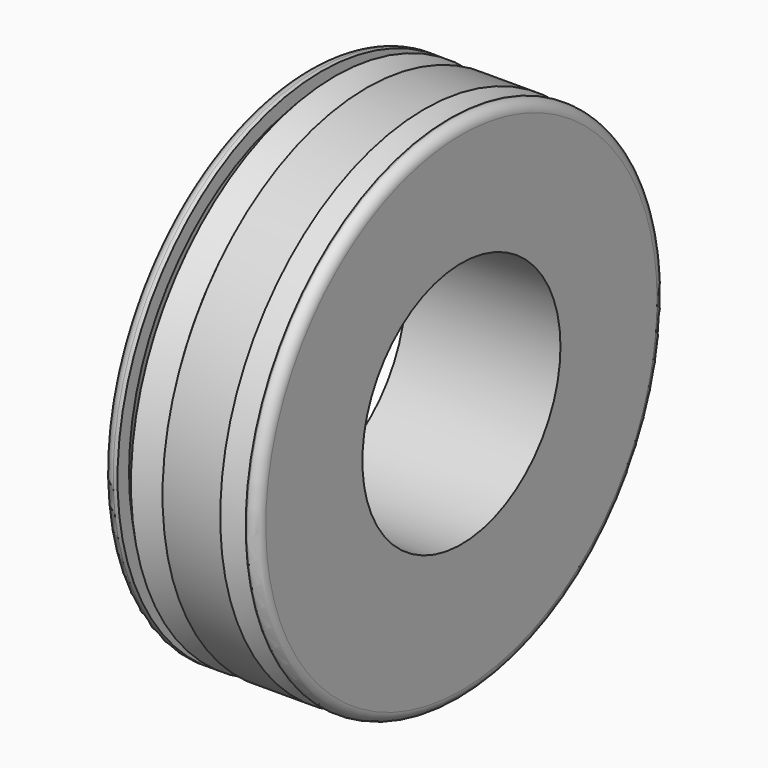
from build123d import *

# Parameters (mm, degrees)
F2_R     = 60.1927898824
F3_DEPTH = 1270
F4_R     = 5.08


with BuildPart() as f1:
    # F0 (on Front) → F1 (revolve)
    with BuildSketch(Plane.XZ):
        Polygon((37.8701165318, 56.4049184322), (-37.3361222446, 56.4049184322), (-37.3361222446, -67.5895376156), (-30.1177501678, -67.5895376156), (-30.1177501678, -60.6174655259), (-23.6104177256, -67.5895376156), (-12.9269050552, -60.6174655259), (-8.2385898663, -67.5895376156), (19.8104574267, -67.5895376156), (32.1801453829, -57.270154357), (32.1801453829, -67.5895376156), (37.8701165318, -67.5895376156), align=None)
    revolve(axis=Axis((0.2669971436, 0, 56.4049184322), (1, 0, 0)))

    # F2 (on Right) → F3 (cut, symmetric)
    with BuildSketch(Plane.YZ):
        with Locations((0, 60.1927898824)):
            Circle(F2_R)
    extrude(amount=F3_DEPTH, both=True, mode=Mode.SUBTRACT)

    # F4
    f4_edges = [f1.edges().sort_by_distance(p)[0] for p in [
        (37.870117, 0, 180.399374),
        (-37.336122, 0, 180.399374),
    ]]
    fillet(f4_edges, radius=F4_R)


solid = f1.part
